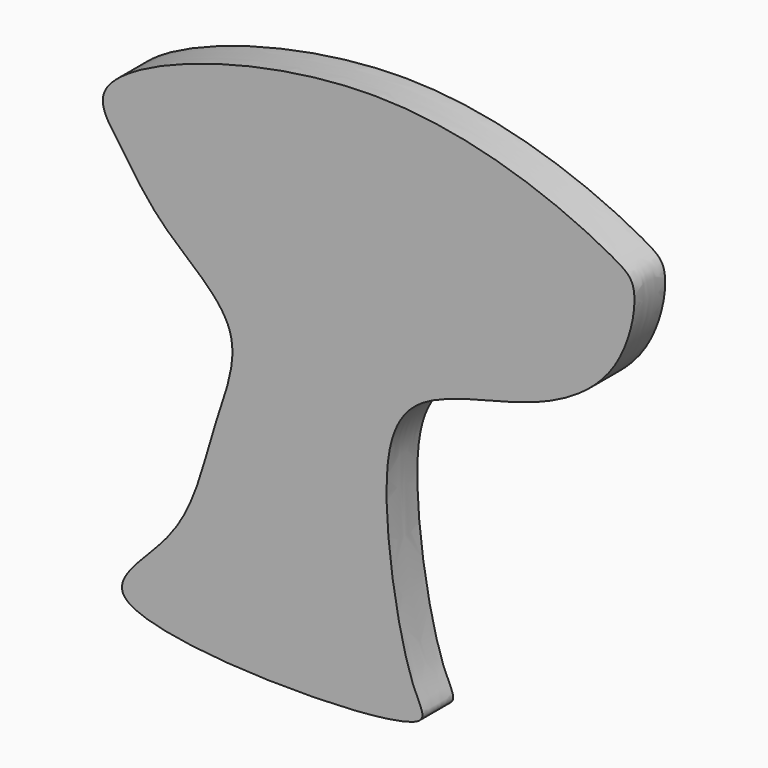
from build123d import *

# Parameters (mm, degrees)
F1_DEPTH = 9


with BuildPart() as f1:
    # F0 (on Front) → F1 (new body)
    with BuildSketch(Plane.XZ):
        with BuildLine():
            add(Edge.make_bspline(
                [(-179.4801056385, 3.0070976354), (-183.4308826787, 6.8318942378), (-164.6336066848, 19.7597085686), (-160.2923584364, 44.1650384556), (-149.875511291, 67.8300441951), (-171.7312381418, 81.7646623844), (-180.4688881419, 96.0557165324), (-192.4381161316, 110.8864044262), (-117.8505075192, 136.455867409), (-66.2127446511, 111.6655733814), (-59.0227000079, 106.3957233672), (-63.1448162405, 85.7200102555), (-84.0997927265, 72.4688877418), (-115.0077411872, 68.7275651758), (-120.8440122366, 45.0437559077), (-114.0406122777, 7.0910958425), (-104.2458137829, -4.2402085854), (-171.9951971514, -4.239135766), (-179.4801056385, 3.0070976354)],
                knots=[0, 0, 0, 0, 0.0538732771, 0.1191877303, 0.1768886033, 0.2350584725, 0.2873872849, 0.3270315334, 0.4284121385, 0.5217531232, 0.5538176502, 0.6053982406, 0.6670289699, 0.7323729834, 0.7899993626, 0.8674338552, 0.8979348759, 1, 1, 1, 1], degree=3))
        make_face()
    extrude(amount=F1_DEPTH)


solid = f1.part
